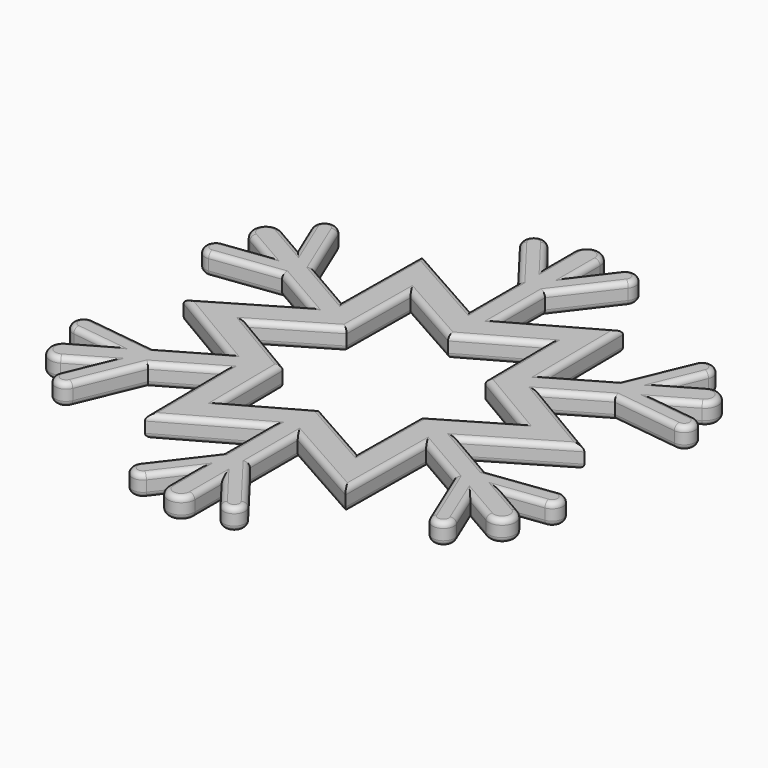
from build123d import *

# Parameters (mm, degrees)
F1_DEPTH = 1
F3_COUNT = 6
F4_R     = 0.5
F6_R     = 0.5
F7_DEPTH = 2


with BuildPart() as f1:
    # F0 (on Top) → F1 (new body, symmetric)
    with BuildSketch(Plane.XY):
        with BuildLine():
            Line((1.25, 20.4042283123), (1.25, 23.5110130161))
            ThreePointArc((1.25, 23.5110130161), (0, 24.7610130161), (-1.25, 23.5110130161))
            Line((-1.25, 23.5110130161), (-1.25, 20.4042283123))
            Line((-1.25, 20.4042283123), (-3.4383371548, 23.2670732111))
            ThreePointArc((-3.4383371548, 23.2670732111), (-4.8401081016, 23.4542581807), (-5.0272930711, 22.0524872339))
            Line((-5.0272930711, 22.0524872339), (-1.25, 17.1109250181))
            Line((-1.25, 17.1109250181), (-1.25, 11.5749918622))
            Line((-1.25, 11.5749918622), (-9.3015343311, 16.1107300498))
            Line((-9.3015343311, 16.1107300498), (-6.3553209768, 11.0077388302))
            Line((-6.3553209768, 11.0077388302), (0, 7.4275427007))
            Line((0, 7.4275427007), (6.3553209768, 11.0077388302))
            Line((6.3553209768, 11.0077388302), (9.3015343311, 16.1107300498))
            Line((9.3015343311, 16.1107300498), (1.25, 11.5749918622))
            Line((1.25, 11.5749918622), (1.25, 17.1109250181))
            Line((1.25, 17.1109250181), (5.0272930711, 22.0524872339))
            ThreePointArc((5.0272930711, 22.0524872339), (4.8401081016, 23.4542581807), (3.4383371548, 23.2670732111))
            Line((3.4383371548, 23.2670732111), (1.25, 20.4042283123))
        make_face()
    extrude(amount=F1_DEPTH, both=True)

    # F3: F1 ×6 about axis
    f3_axis = Axis((0, 0, 6.4609721303), (0, 0, 1))


with BuildPart() as f1_1:
    add(f1.part)
    for i in range(1, F3_COUNT):
        add(f1.part.rotate(f3_axis, i * 360 / F3_COUNT))

    # F4
    f4_edges = [f1_1.edges().sort_by_distance(p)[0] for p in [
        (-3.17766, 9.217641, 1),
        (3.17766, 9.217641, 1),
        (6.393881, 7.360755, 1),
        (9.571541, 1.856886, 1),
        (9.571541, -1.856886, 1),
        (6.393881, -7.360755, 1),
        (3.17766, -9.217641, 1),
        (-3.17766, -9.217641, 1),
        (-6.393881, -7.360755, 1),
        (-9.571541, -1.856886, 1),
        (-9.571541, 1.856886, 1),
        (-6.393881, 7.360755, 1),
        (5.275767, 13.842861, 1),
        (1.25, 14.342958, 1),
        (3.138647, 19.581706, 1),
        (4.840108, 23.454258, 1),
        (2.344169, 21.835651, 1),
        (1.25, 21.957621, 1),
        (0, 24.761013, 1),
        (-1.25, 21.957621, 1),
        (-2.344169, 21.835651, 1),
        (-4.840108, 23.454258, 1),
        (-3.138647, 19.581706, 1),
        (-1.25, 14.342958, 1),
        (-5.275767, 13.842861, 1),
        (-9.350386, 11.490379, 1),
        (-11.796366, 8.254011, 1),
        (-15.388932, 12.509001, 1),
        (-17.891929, 15.918786, 1),
        (-17.738144, 12.947935, 1),
        (-18.390857, 12.061342, 1),
        (-21.443666, 12.380507, 1),
        (-19.640857, 9.896279, 1),
        (-20.082313, 8.887716, 1),
        (-22.732037, 7.535473, 1),
        (-18.527578, 7.072705, 1),
        (-13.046366, 6.088947, 1),
        (-14.626153, 2.352482, 1),
        (-14.626153, -2.352482, 1),
        (-13.046366, -6.088947, 1),
        (-18.527578, -7.072705, 1),
        (-22.732037, -7.535473, 1),
        (-20.082313, -8.887716, 1),
        (-19.640857, -9.896279, 1),
        (-21.443666, -12.380507, 1),
        (-18.390857, -12.061342, 1),
        (-17.738144, -12.947935, 1),
        (-17.891929, -15.918786, 1),
        (-15.388932, -12.509001, 1),
        (-11.796366, -8.254011, 1),
        (-9.350386, -11.490379, 1),
        (-5.275767, -13.842861, 1),
        (-1.25, -14.342958, 1),
        (-3.138647, -19.581706, 1),
        (-4.840108, -23.454258, 1),
        (-2.344169, -21.835651, 1),
        (-1.25, -21.957621, 1),
        (0, -24.761013, 1),
        (1.25, -21.957621, 1),
        (2.344169, -21.835651, 1),
        (4.840108, -23.454258, 1),
        (3.138647, -19.581706, 1),
        (1.25, -14.342958, 1),
        (5.275767, -13.842861, 1),
        (9.350386, -11.490379, 1),
        (11.796366, -8.254011, 1),
        (15.388932, -12.509001, 1),
        (17.891929, -15.918786, 1),
        (17.738144, -12.947935, 1),
        (18.390857, -12.061342, 1),
        (21.443666, -12.380507, 1),
        (19.640857, -9.896279, 1),
        (20.082313, -8.887716, 1),
        (22.732037, -7.535473, 1),
        (18.527578, -7.072705, 1),
        (13.046366, -6.088947, 1),
        (14.626153, -2.352482, 1),
        (14.626153, 2.352482, 1),
        (13.046366, 6.088947, 1),
        (18.527578, 7.072705, 1),
        (22.732037, 7.535473, 1),
        (20.082313, 8.887716, 1),
        (19.640857, 9.896279, 1),
        (21.443666, 12.380507, 1),
        (18.390857, 12.061342, 1),
        (17.738144, 12.947935, 1),
        (17.891929, 15.918786, 1),
        (15.388932, 12.509001, 1),
        (11.796366, 8.254011, 1),
        (9.350386, 11.490379, 1),
        (-3.17766, 9.217641, -1),
        (3.17766, 9.217641, -1),
        (6.393881, 7.360755, -1),
        (9.571541, 1.856886, -1),
        (9.571541, -1.856886, -1),
        (6.393881, -7.360755, -1),
        (3.17766, -9.217641, -1),
        (-3.17766, -9.217641, -1),
        (-6.393881, -7.360755, -1),
        (-9.571541, -1.856886, -1),
        (-9.571541, 1.856886, -1),
        (-6.393881, 7.360755, -1),
        (5.275767, 13.842861, -1),
        (1.25, 14.342958, -1),
        (3.138647, 19.581706, -1),
        (4.840108, 23.454258, -1),
        (2.344169, 21.835651, -1),
        (1.25, 21.957621, -1),
        (0, 24.761013, -1),
        (-1.25, 21.957621, -1),
        (-2.344169, 21.835651, -1),
        (-4.840108, 23.454258, -1),
        (-3.138647, 19.581706, -1),
        (-1.25, 14.342958, -1),
        (-5.275767, 13.842861, -1),
        (-9.350386, 11.490379, -1),
        (-11.796366, 8.254011, -1),
        (-15.388932, 12.509001, -1),
        (-17.891929, 15.918786, -1),
        (-17.738144, 12.947935, -1),
        (-18.390857, 12.061342, -1),
        (-21.443666, 12.380507, -1),
        (-19.640857, 9.896279, -1),
        (-20.082313, 8.887716, -1),
        (-22.732037, 7.535473, -1),
        (-18.527578, 7.072705, -1),
        (-13.046366, 6.088947, -1),
        (-14.626153, 2.352482, -1),
        (-14.626153, -2.352482, -1),
        (-13.046366, -6.088947, -1),
        (-18.527578, -7.072705, -1),
        (-22.732037, -7.535473, -1),
        (-20.082313, -8.887716, -1),
        (-19.640857, -9.896279, -1),
        (-21.443666, -12.380507, -1),
        (-18.390857, -12.061342, -1),
        (-17.738144, -12.947935, -1),
        (-17.891929, -15.918786, -1),
        (-15.388932, -12.509001, -1),
        (-11.796366, -8.254011, -1),
        (-9.350386, -11.490379, -1),
        (-5.275767, -13.842861, -1),
        (-1.25, -14.342958, -1),
        (-3.138647, -19.581706, -1),
        (-4.840108, -23.454258, -1),
        (-2.344169, -21.835651, -1),
        (-1.25, -21.957621, -1),
        (0, -24.761013, -1),
        (1.25, -21.957621, -1),
        (2.344169, -21.835651, -1),
        (4.840108, -23.454258, -1),
        (3.138647, -19.581706, -1),
        (1.25, -14.342958, -1),
        (5.275767, -13.842861, -1),
        (9.350386, -11.490379, -1),
        (11.796366, -8.254011, -1),
        (15.388932, -12.509001, -1),
        (17.891929, -15.918786, -1),
        (17.738144, -12.947935, -1),
        (18.390857, -12.061342, -1),
        (21.443666, -12.380507, -1),
        (19.640857, -9.896279, -1),
        (20.082313, -8.887716, -1),
        (22.732037, -7.535473, -1),
        (18.527578, -7.072705, -1),
        (13.046366, -6.088947, -1),
        (14.626153, -2.352482, -1),
        (14.626153, 2.352482, -1),
        (13.046366, 6.088947, -1),
        (18.527578, 7.072705, -1),
        (22.732037, 7.535473, -1),
        (20.082313, 8.887716, -1),
        (19.640857, 9.896279, -1),
        (21.443666, 12.380507, -1),
        (18.390857, 12.061342, -1),
        (17.738144, 12.947935, -1),
        (17.891929, 15.918786, -1),
        (15.388932, 12.509001, -1),
        (11.796366, 8.254011, -1),
        (9.350386, 11.490379, -1),
    ]]
    fillet(f4_edges, radius=F4_R)

    # F6 (on offset) → F7 (cut)
    with BuildSketch(Plane.XZ.offset(-25)):
        Circle(F6_R)
    extrude(amount=F7_DEPTH, mode=Mode.SUBTRACT)


solid = f1_1.part
